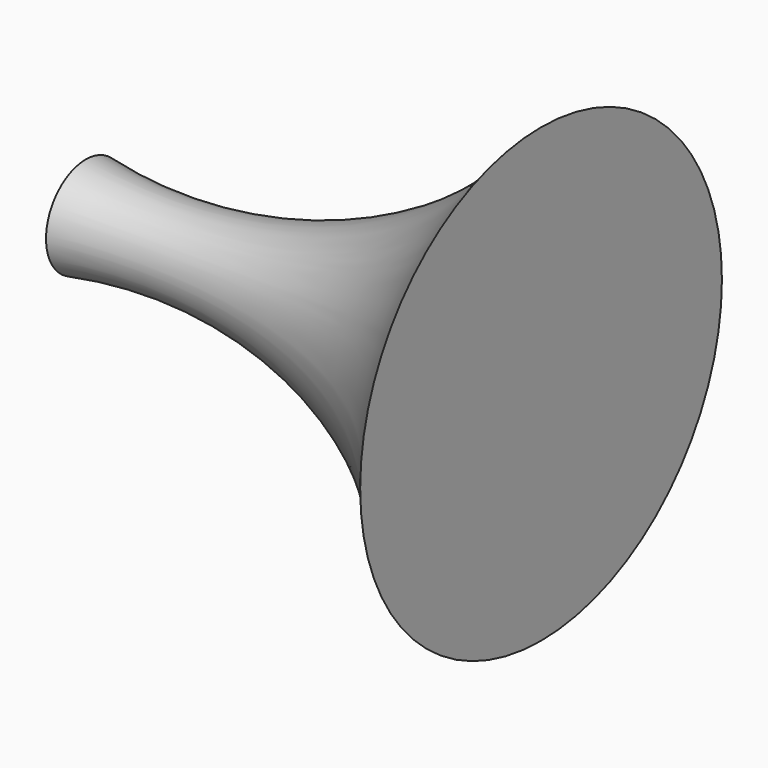
from build123d import *


with BuildPart() as f1:
    # F0 (on Top) → F1 (revolve)
    with BuildSketch(Plane.XY):
        with BuildLine():
            Line((0, 0), (60, 0))
            Line((60, 0), (60, 32.737644))
            ThreePointArc((60, 32.737644), (30.636373, 10.667138), (-5.93156, 7.186312))
            Line((-5.93156, 7.186312), (-5.93156, 3.079848))
            Line((-5.93156, 3.079848), (0, 3.079848))
            Line((0, 3.079848), (0, 0))
        make_face()
    revolve(axis=Axis((30, 0, 0), (1, 0, 0)))


solid = f1.part
